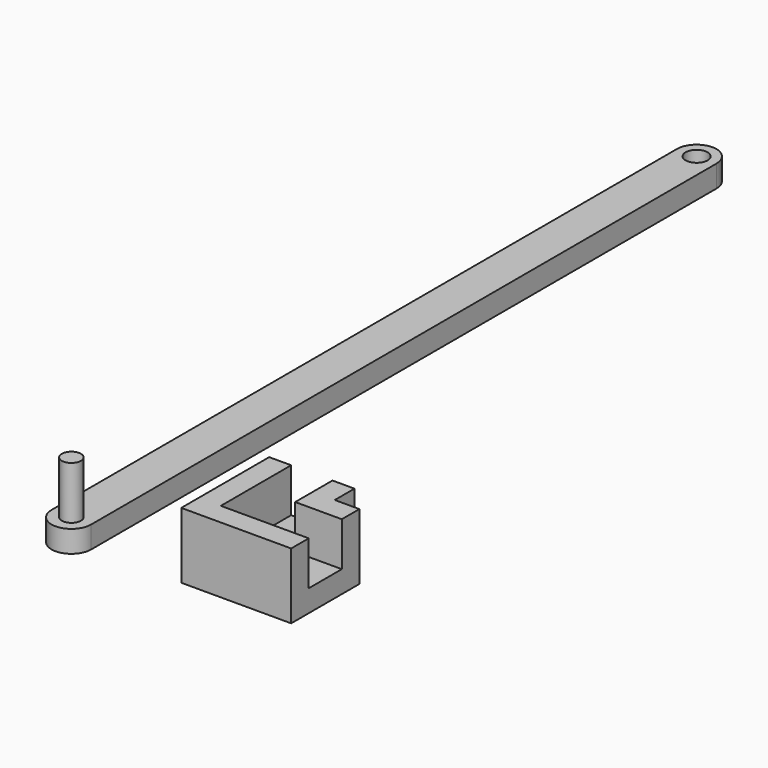
from build123d import *

# Parameters (mm, degrees)
F0_R      = 2.5
F1_DEPTH  = 5
F2_R      = 2.18125
F3_DEPTH  = 12
F4_W      = 25
F4_H      = 25
F5_DEPTH  = 5
F6_W      = 10.6
F6_H      = 10.6
F7_DEPTH  = 10
F8_R      = 2.5
F9_DEPTH  = 25
F10_W     = 5.6
F10_H     = 5.6
F11_DEPTH = 25


with BuildPart() as f1:
    # F0 (on Top) → F1 (new body)
    with BuildSketch(Plane.XY):
        with BuildLine():
            ThreePointArc((4.5, 177.8), (0, 182.3), (-4.5, 177.8))
            Line((-4.5, 177.8), (-4.5, 0))
            ThreePointArc((-4.5, 0), (0, -4.5), (4.5, 0))
            Line((4.5, 0), (4.5, 177.8))
        make_face()
        with Locations((0, 177.8)):
            Circle(F0_R, mode=Mode.SUBTRACT)
    extrude(amount=F1_DEPTH)

    # F2 (on face) → F3 (join)
    with BuildSketch(Plane.XY.offset(5)):
        Circle(F2_R)
    extrude(amount=F3_DEPTH)


with BuildPart() as f5:
    # F4 (on Top) → F5 (new body)
    with BuildSketch(Plane.XY):
        with Locations((37.5, 12.5)):
            Rectangle(F4_W, F4_H)
    extrude(amount=F5_DEPTH)

    # F6 (on face) → F7 (join)
    with BuildSketch(Plane.XY.offset(5)):
        Polygon((30, 25), (25, 25), (25, 0), (50, 0), (50, 5), (30, 5), align=None)
        with Locations((44.7, 19.7)):
            Rectangle(F6_W, F6_H)
    extrude(amount=F7_DEPTH)

    # F8 (on face) → F9 (cut)
    with BuildSketch(Plane.XY.offset(5)):
        with Locations((34.7, 9.7)):
            Circle(F8_R)
    extrude(amount=-F9_DEPTH, mode=Mode.SUBTRACT)

    # F10 (on face) → F11 (cut)
    with BuildSketch(Plane.XY.offset(15)):
        with Locations((47.2, 22.2)):
            Rectangle(F10_W, F10_H)
    extrude(amount=-F11_DEPTH, mode=Mode.SUBTRACT)


solid = Compound([f1.part, f5.part])
